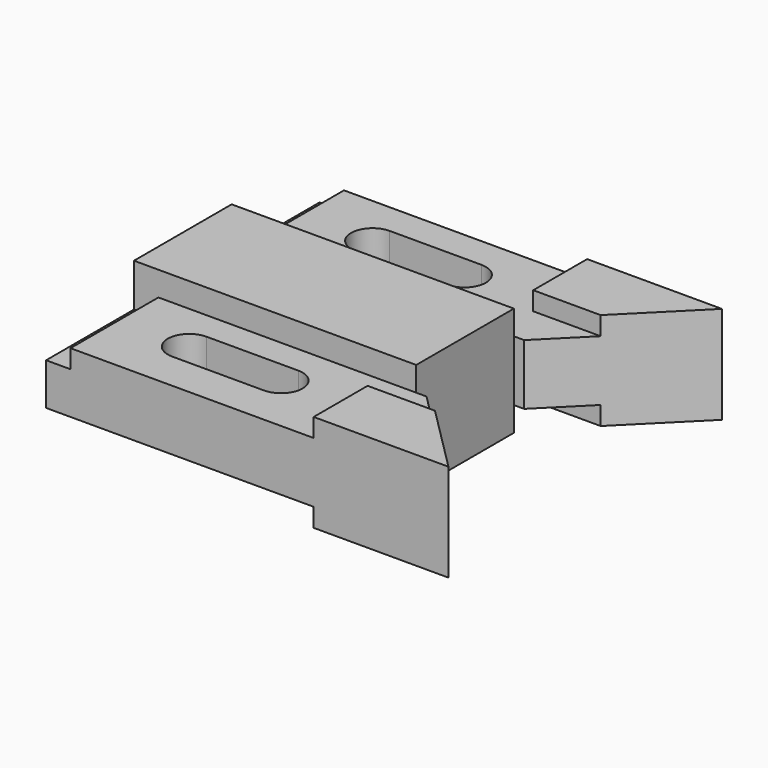
from build123d import *

# Parameters (mm, degrees)
F1_DEPTH = 14.224
F2_DEPTH = 7.874
F0_W     = 6.35
F0_H     = 28.575
F3_DEPTH = 3.048
F4_DEPTH = 7.874
F0_W_2   = 3.81
F0_H_2   = 17.526
F5_DEPTH = 12.7


with BuildPart() as f1:
    # F0 (on Top) → F1 (new body, symmetric)
    with BuildSketch(Plane.XY):
        Polygon((-30.353, -15.875), (36.703, -15.875), (36.703, 15.875), (-30.353, 15.875), (-36.703, 15.875), (-36.703, -15.875), align=None)
    extrude(amount=F1_DEPTH, both=True)

    # F0 (on Top) → F2 (join, symmetric)
    with BuildSketch(Plane.XY):
        Polygon((-30.353, 15.875), (36.703, 15.875), (36.703, 26.924), (32.893, 26.924), (32.893, 44.45), (-30.353, 44.45), align=None)
        with BuildLine():
            ThreePointArc((17.526, 30.7297036052), (15.8893126933, 26.7783909119), (11.938, 25.1417036052))
            Line((11.938, 25.1417036052), (-11.938, 25.1417036052))
            ThreePointArc((-11.938, 25.1417036052), (-15.8893126933, 26.7783909119), (-17.526, 30.7297036052))
            ThreePointArc((-17.526, 30.7297036052), (-15.8893126933, 34.6810162984), (-11.938, 36.3177036052))
            Line((-11.938, 36.3177036052), (11.938, 36.3177036052))
            ThreePointArc((11.938, 36.3177036052), (15.8893126933, 34.6810162984), (17.526, 30.7297036052))
        make_face(mode=Mode.SUBTRACT)
        Polygon((-30.353, -44.45), (32.893, -44.45), (32.893, -26.924), (36.703, -26.924), (36.703, -15.875), (-30.353, -15.875), align=None)
        with BuildLine():
            ThreePointArc((17.526, -28.8352370262), (15.8893126933, -32.7865497195), (11.938, -34.4232370262))
            Line((11.938, -34.4232370262), (-11.938, -34.4232370262))
            ThreePointArc((-11.938, -34.4232370262), (-15.8893126933, -32.7865497195), (-17.526, -28.8352370262))
            ThreePointArc((-17.526, -28.8352370262), (-15.8893126933, -24.8839243329), (-11.938, -23.2472370262))
            Line((-11.938, -23.2472370262), (11.938, -23.2472370262))
            ThreePointArc((11.938, -23.2472370262), (15.8893126933, -24.8839243329), (17.526, -28.8352370262))
        make_face(mode=Mode.SUBTRACT)
        Polygon((36.703, 26.924), (36.703, 15.875), (39.37, 15.875), (50.419, 26.924), align=None)
        Polygon((36.703, -15.875), (36.703, -26.924), (50.419, -26.924), (39.37, -15.875), align=None)
    extrude(amount=F2_DEPTH, both=True)

    # F0 (on Top) → F3 (join)
    with BuildSketch(Plane.XY):
        with Locations((-33.528, 30.1625)):
            Rectangle(F0_W, F0_H)
        with Locations((-33.528, -30.1625)):
            Rectangle(F0_W, F0_H)
    extrude(amount=F3_DEPTH)

    # F0 (on Top) → F4 (join, through all)
    with BuildSketch(Plane.XY):
        with Locations((-33.528, -30.1625)):
            Rectangle(F0_W, F0_H)
        with Locations((-33.528, 30.1625)):
            Rectangle(F0_W, F0_H)
    extrude(amount=-F4_DEPTH)

    # F0 (on Top) → F5 (join, symmetric)
    with BuildSketch(Plane.XY):
        Polygon((36.703, -26.924), (36.703, -44.45), (67.945, -44.45), (50.419, -26.924), align=None)
        with Locations((34.798, -35.687)):
            Rectangle(F0_W_2, F0_H_2)
        Polygon((36.703, 44.45), (36.703, 26.924), (50.419, 26.924), (67.945, 44.45), align=None)
        with Locations((34.798, 35.687)):
            Rectangle(F0_W_2, F0_H_2)
    extrude(amount=F5_DEPTH, both=True)


solid = f1.part
